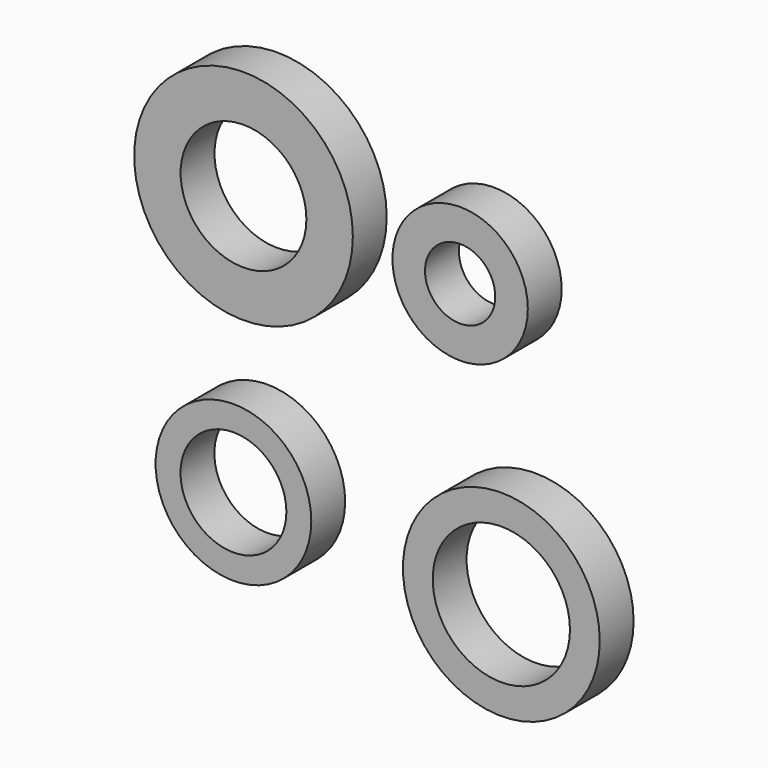
from build123d import *

# Parameters (mm, degrees)
F0_R     = 20.507354
F0_R_2   = 10.63598
F0_R_3   = 29.819095
F0_R_4   = 20.790723
F0_R_5   = 33.12461
F0_R_6   = 19.05
F0_R_7   = 23.586472
F0_R_8   = 16.038826
F1_DEPTH = 12.826072


with BuildPart() as f1:
    # F0 (on Front) → F1 (new body)
    with BuildSketch(Plane.XZ):
        with Locations((21.127868, 33.543214)):
            Circle(F0_R)
        with Locations((21.127868, 33.543214)):
            Circle(F0_R_2, mode=Mode.SUBTRACT)
        with Locations((33.615816, -47.918875)):
            Circle(F0_R_3)
        with Locations((33.615816, -47.918875)):
            Circle(F0_R_4, mode=Mode.SUBTRACT)
        with Locations((-44.506472, 35.576135)):
            Circle(F0_R_5)
        with Locations((-44.506472, 35.576135)):
            Circle(F0_R_6, mode=Mode.SUBTRACT)
        with Locations((-47.555853, -44.433866)):
            Circle(F0_R_7)
        with Locations((-47.555853, -44.433866)):
            Circle(F0_R_8, mode=Mode.SUBTRACT)
    extrude(amount=F1_DEPTH)


solid = f1.part
